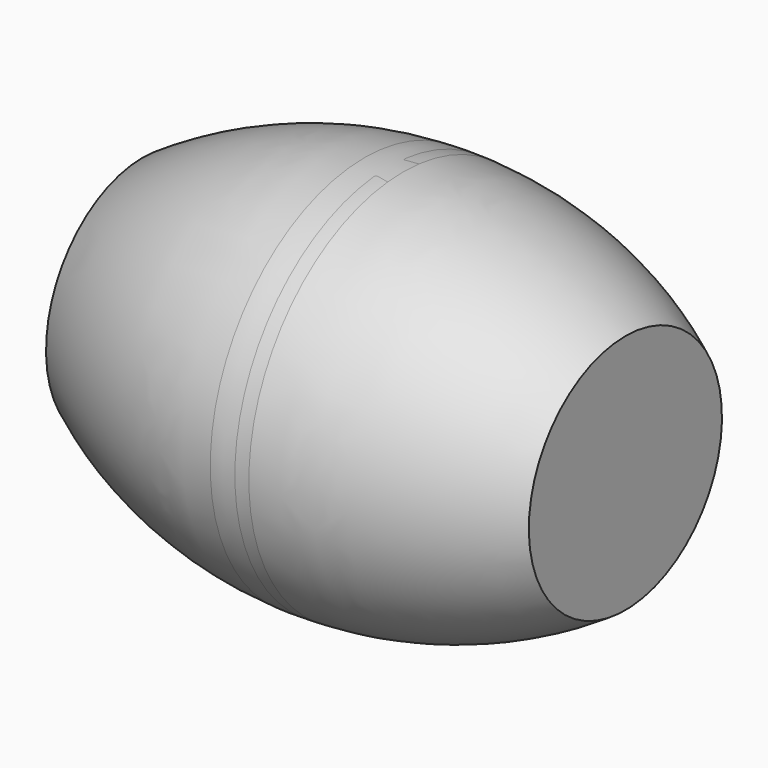
from build123d import *


with BuildPart() as f1:
    # F0 (on Front) → F1 (revolve)
    with BuildSketch(Plane.XZ):
        with BuildLine():
            ThreePointArc((230, 199.921498), (250, 200.169322), (270, 199.921498))
            ThreePointArc((270, 199.921498), (250, 200.363863), (230, 199.921498))
        make_face()
        with BuildLine():
            Line((230, 0), (230, 199.921498))
            ThreePointArc((230, 199.921498), (109.898937, 178.120398), (0, 125))
            Line((0, 125), (0, 0))
            Line((0, 0), (230, 0))
        make_face()
        with BuildLine():
            Line((500, 0), (500, 125))
            ThreePointArc((500, 125), (390.101063, 178.120398), (270, 199.921498))
            Line((270, 199.921498), (270, 0))
            Line((270, 0), (500, 0))
        make_face()
    revolve(axis=Axis((250, 0, 0), (1, 0, 0)))


solid = f1.part
